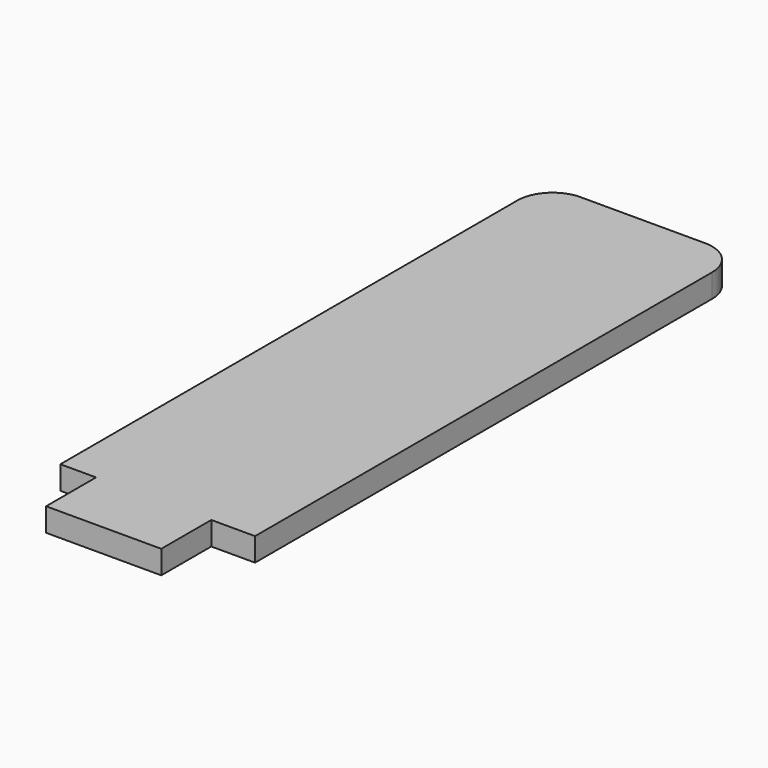
from build123d import *

# Parameters (mm, degrees)
F0_W     = 7.509015
F0_H     = 4.072568
F1_DEPTH = 1.524
F2_R     = 2.286


with BuildPart() as f1:
    # F0 (on Top) → F1 (new body)
    with BuildSketch(Plane.XY):
        Polygon((-17.339292, 23.862333), (-17.339292, -15.665929), (-15.364731, -15.665929), (-15.013147, -15.665929), (-7.504132, -15.665929), (-6.548692, -15.665929), (-4.650535, -15.665929), (-4.650535, 23.862333), align=None)
        with Locations((-11.258639, -17.702213)):
            Rectangle(F0_W, F0_H)
        with Locations((-11.258639, -17.702213)):
            Rectangle(F0_W, F0_H)
    extrude(amount=F1_DEPTH)

    # F2
    f2_edges = [f1.edges().sort_by_distance(p)[0] for p in [
        (-4.650535, 23.862333, 0.762),
        (-17.339292, 23.862333, 0.762),
    ]]
    fillet(f2_edges, radius=F2_R)


solid = f1.part
